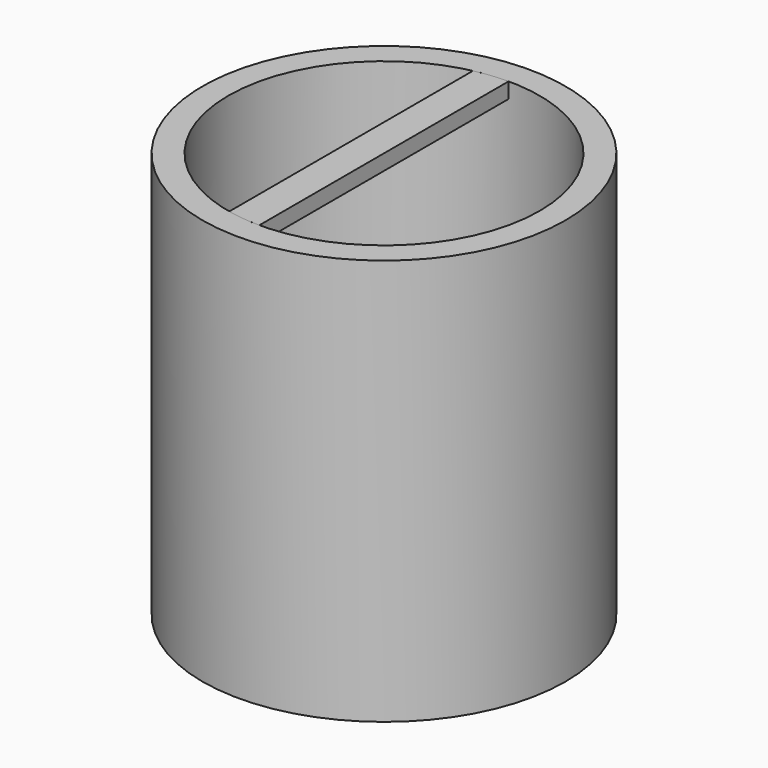
from build123d import *

# Parameters (mm, degrees)
F0_R     = 29.7460405886
F0_R_2   = 25.5333120523
F1_DEPTH = 66.548
F3_DEPTH = 2.54


with BuildPart() as f1:
    # F0 (on Top) → F1 (new body)
    with BuildSketch(Plane.XY):
        Circle(F0_R)
        Circle(F0_R_2, mode=Mode.SUBTRACT)
    extrude(amount=F1_DEPTH)


with BuildPart() as f3:
    # F2 (on face) → F3 (new body)
    with BuildSketch(Plane.XY.offset(66.548)):
        with BuildLine():
            Line((0, -25.5333120523), (0, 25.5333120523))
            ThreePointArc((0, 25.5333120523), (-2.7105204522, 25.3890350986), (-5.3904091059, 24.9578347224))
            Line((-5.3904091059, 24.9578347224), (-5.3904091059, -24.9578347224))
            ThreePointArc((-5.3904091059, -24.9578347224), (-2.7105204522, -25.3890350986), (0, -25.5333120523))
        make_face()
    extrude(amount=-F3_DEPTH)


solid = Compound([f1.part, f3.part])
